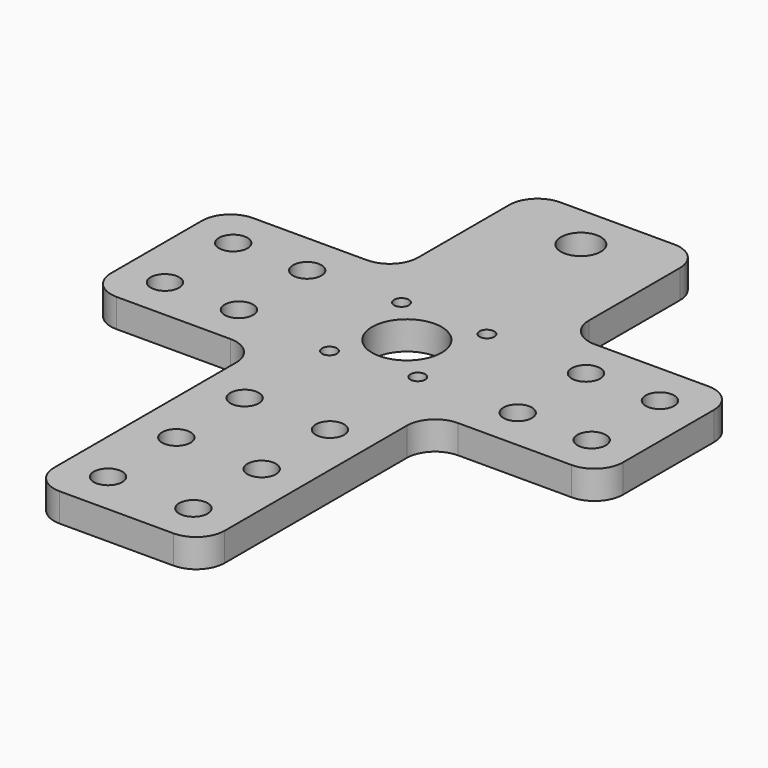
from build123d import *

# Parameters (mm, degrees)
F0_R     = 3.175
F0_R_2   = 1.651
F0_R_3   = 7.77875
F0_R_4   = 4.445
F1_DEPTH = 6.35


with BuildPart() as f1:
    # F0 (on Top) → F1 (new body)
    with BuildSketch(Plane.XY):
        with BuildLine():
            Line((31.75, 0), (6.35, 0))
            ThreePointArc((6.35, 0), (1.859872, -1.859872), (0, -6.35))
            Line((0, -6.35), (0, -31.75))
            ThreePointArc((0, -31.75), (-1.859872, -36.240128), (-6.35, -38.1))
            Line((-6.35, -38.1), (-31.75, -38.1))
            ThreePointArc((-31.75, -38.1), (-36.240128, -39.959872), (-38.1, -44.45))
            Line((-38.1, -44.45), (-38.1, -69.85))
            ThreePointArc((-38.1, -69.85), (-36.240128, -74.340128), (-31.75, -76.2))
            Line((-31.75, -76.2), (-6.35, -76.2))
            ThreePointArc((-6.35, -76.2), (-1.859872, -78.059872), (0, -82.55))
            Line((0, -82.55), (0, -133.35))
            ThreePointArc((0, -133.35), (1.859872, -137.840128), (6.35, -139.7))
            Line((6.35, -139.7), (31.75, -139.7))
            ThreePointArc((31.75, -139.7), (36.240128, -137.840128), (38.1, -133.35))
            Line((38.1, -133.35), (38.1, -82.55))
            ThreePointArc((38.1, -82.55), (39.959872, -78.059872), (44.45, -76.2))
            Line((44.45, -76.2), (69.85, -76.2))
            ThreePointArc((69.85, -76.2), (74.340128, -74.340128), (76.2, -69.85))
            Line((76.2, -69.85), (76.2, -44.45))
            ThreePointArc((76.2, -44.45), (74.340128, -39.959872), (69.85, -38.1))
            Line((69.85, -38.1), (44.45, -38.1))
            ThreePointArc((44.45, -38.1), (39.959872, -36.240128), (38.1, -31.75))
            Line((38.1, -31.75), (38.1, -6.35))
            ThreePointArc((38.1, -6.35), (36.240128, -1.859872), (31.75, 0))
        make_face()
        with Locations((9.525, -130.175)):
            Circle(F0_R, mode=Mode.SUBTRACT)
        with Locations((9.525, -111.125)):
            Circle(F0_R, mode=Mode.SUBTRACT)
        with Locations((9.525, -92.075)):
            Circle(F0_R, mode=Mode.SUBTRACT)
        with Locations((28.575, -130.175)):
            Circle(F0_R, mode=Mode.SUBTRACT)
        with Locations((28.575, -111.125)):
            Circle(F0_R, mode=Mode.SUBTRACT)
        with Locations((28.575, -92.075)):
            Circle(F0_R, mode=Mode.SUBTRACT)
        with Locations((-28.575, -66.675)):
            Circle(F0_R, mode=Mode.SUBTRACT)
        with Locations((-12.065, -66.675)):
            Circle(F0_R, mode=Mode.SUBTRACT)
        with Locations((-28.575, -47.625)):
            Circle(F0_R, mode=Mode.SUBTRACT)
        with Locations((-12.065, -47.625)):
            Circle(F0_R, mode=Mode.SUBTRACT)
        with Locations((9.975914, -68.960481)):
            Circle(F0_R_2, mode=Mode.SUBTRACT)
        with Locations((17.875847, -57.246702)):
            Circle(F0_R_3, mode=Mode.SUBTRACT)
        with Locations((8.341793, -46.819651)):
            Circle(F0_R_2, mode=Mode.SUBTRACT)
        with Locations((28.111514, -66.985937)):
            Circle(F0_R_2, mode=Mode.SUBTRACT)
        with Locations((27.409901, -46.819651)):
            Circle(F0_R_2, mode=Mode.SUBTRACT)
        with Locations((50.165, -66.675)):
            Circle(F0_R, mode=Mode.SUBTRACT)
        with Locations((66.675, -66.675)):
            Circle(F0_R, mode=Mode.SUBTRACT)
        with Locations((50.165, -47.625)):
            Circle(F0_R, mode=Mode.SUBTRACT)
        with Locations((66.675, -47.625)):
            Circle(F0_R, mode=Mode.SUBTRACT)
        with Locations((19.05, -10.16)):
            Circle(F0_R_4, mode=Mode.SUBTRACT)
    extrude(amount=F1_DEPTH)


solid = f1.part
